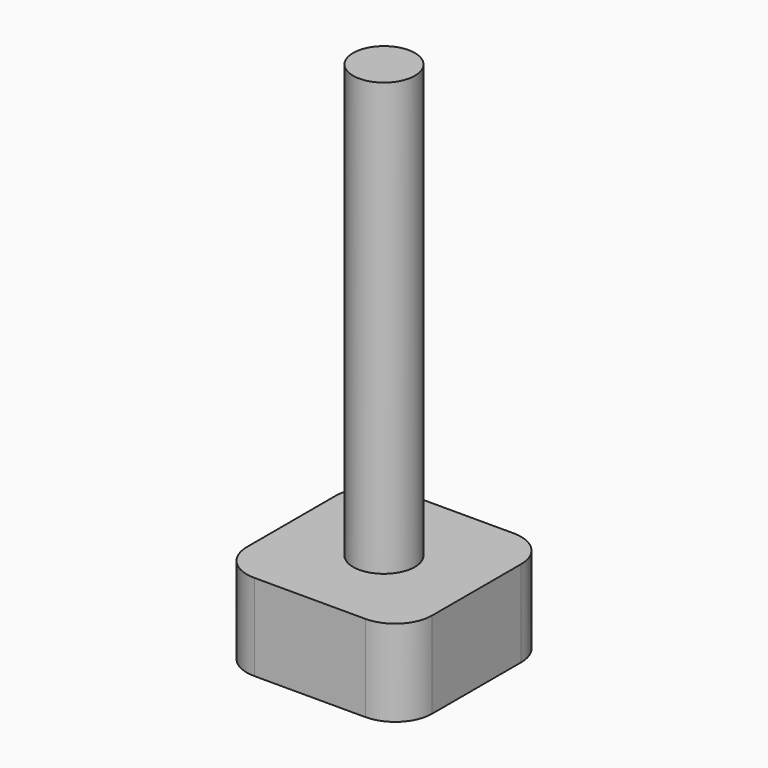
from build123d import *

# Parameters (mm, degrees)
SKETCH149_R        = 2.5
PAD079_DEPTH       = 42
SKETCH148_W        = 15
SKETCH148_H        = 15
PAD080_DEPTH       = 7
FILLET005_R        = 3
BODY045_ROLL_ANGLE = -90


with BuildPart() as part:
    # Sketch149 → Pad079 (new body)
    with BuildSketch(Plane.XZ):
        Circle(SKETCH149_R)
    extrude(amount=-PAD079_DEPTH)

    # Sketch148 (on Face3 of Pad079) → Pad080 (join)
    with BuildSketch(Plane(origin=(0, 42, 0), x_dir=(1, 0, 0), z_dir=(0, 1, 0))):
        Rectangle(SKETCH148_W, SKETCH148_H)
    extrude(amount=-PAD080_DEPTH)

    # Fillet005
    fillet005_edges = [part.edges().sort_by_distance(p)[0] for p in [
        (7.5, 38.5, -7.5),
        (7.5, 38.5, 7.5),
        (-7.5, 38.5, 7.5),
        (-7.5, 38.5, -7.5),
    ]]
    fillet(fillet005_edges, radius=FILLET005_R)


with BuildPart() as part_1:
    # Body045 roll: moved
    add(part.part.rotate(Axis((0, 0, 0), (1, 0, 0)), BODY045_ROLL_ANGLE))


with BuildPart() as part_2:
    # Body045 placement: moved
    add(part_1.part.moved(Location((-28.5, 150, 38))))


solid = part_2.part
